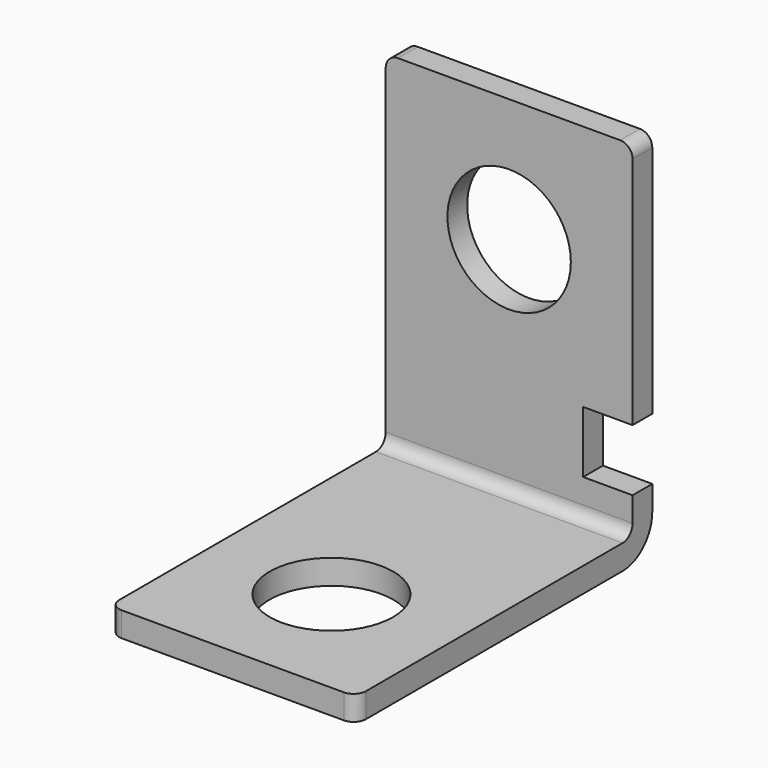
from build123d import *

# Parameters (mm, degrees)
F0_R     = 5
F1_DEPTH = 30
F2_W     = 20
F2_H     = 28
F2_R     = 5
F3_DEPTH = 28
F4_DEPTH = 56
F5_R     = 1
F6_R     = 3
F7_R     = 1


with BuildPart() as f1:
    # F0 (on Front) → F1 (new body)
    with BuildSketch(Plane.XZ):
        Polygon((0, 30), (0, 0), (20, 0), (20, 5), (16, 5), (16, 10), (20, 10), (20, 30), align=None)
        with Locations((10, 20)):
            Circle(F0_R, mode=Mode.SUBTRACT)
    extrude(amount=F1_DEPTH)

    # F2 (on face) → F3 (cut)
    with BuildSketch(Plane.XY.offset(30)):
        with Locations((10, -16)):
            Rectangle(F2_W, F2_H)
        with Locations((10, -20)):
            Circle(F2_R, mode=Mode.SUBTRACT)
        with Locations((10, -20)):
            Circle(F2_R)
    extrude(amount=-F3_DEPTH, mode=Mode.SUBTRACT)

    # F2 (on face) → F4 (cut)
    with BuildSketch(Plane.XY.offset(30)):
        with Locations((10, -20)):
            Circle(F2_R)
    extrude(amount=-F4_DEPTH, mode=Mode.SUBTRACT)

    # F5
    f5_edges = [f1.edges().sort_by_distance(p)[0] for p in [
        (20, -30, 1),
        (0, -30, 1),
        (20, -1, 30),
        (0, -1, 30),
    ]]
    fillet(f5_edges, radius=F5_R)

    # F6
    f6_edges = [f1.edges().sort_by_distance(p)[0] for p in [
        (10, 0, 0),
    ]]
    fillet(f6_edges, radius=F6_R)

    # F7
    f7_edges = [f1.edges().sort_by_distance(p)[0] for p in [
        (10, -2, 2),
    ]]
    fillet(f7_edges, radius=F7_R)


solid = f1.part
